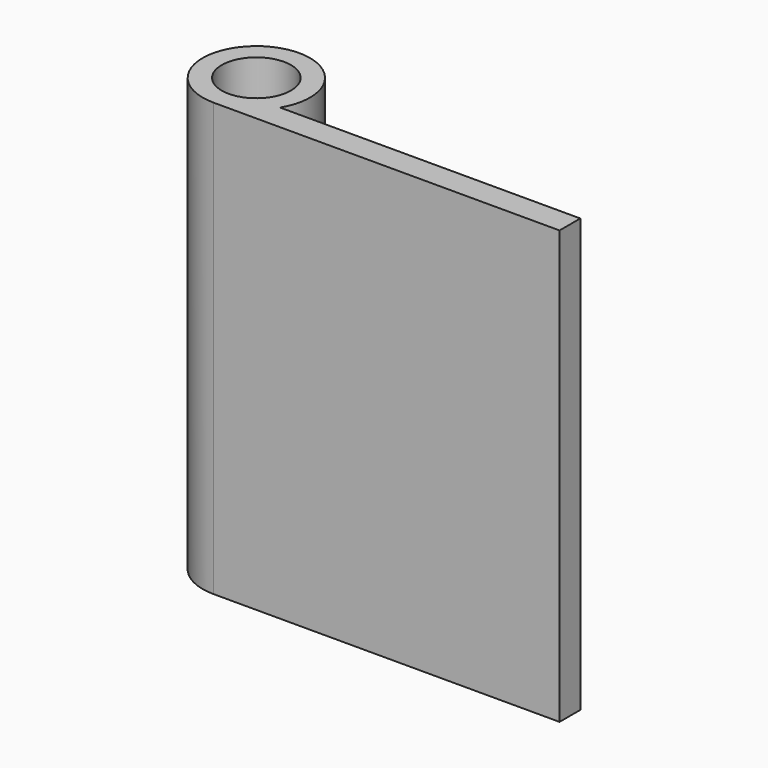
from build123d import *

# Parameters (mm, degrees)
F1_DEPTH = 1270
F2_R     = 101.6
F3_DEPTH = 1270.001


with BuildPart() as f1:
    # F0 (on Top) → F1 (new body)
    with BuildSketch(Plane.XY):
        with BuildLine():
            ThreePointArc((134.883327, 76.2), (-77.459589, 294.592955), (0, 0))
            Line((0, 0), (1016, 0))
            Line((1016, 0), (1016, 76.2))
            Line((1016, 76.2), (134.883327, 76.2))
        make_face()
    extrude(amount=F1_DEPTH)

    # F2 (on face) → F3 (cut, through all)
    with BuildSketch(Plane.XY.offset(1270)):
        with Locations((0, 157.48)):
            Circle(F2_R)
    extrude(amount=-F3_DEPTH, mode=Mode.SUBTRACT)


solid = f1.part
